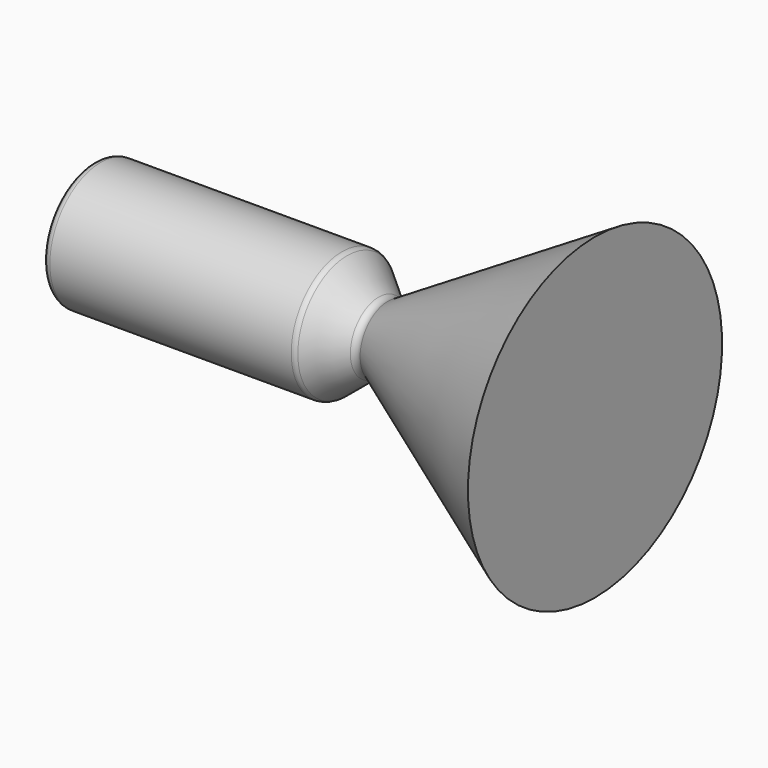
from build123d import *


with BuildPart() as f1:
    # F0 (on Front) → F1 (revolve)
    with BuildSketch(Plane.XZ):
        with BuildLine():
            Line((0, 44.45), (0, 0))
            Line((0, 0), (401.558606, 0))
            Line((401.558606, 0), (401.558606, 127))
            Line((401.558606, 127), (235.924389, 27.720657))
            ThreePointArc((235.924389, 27.720657), (232.164967, 26.836513), (228.588575, 28.294041))
            Line((228.588575, 28.294041), (203.41712, 49.323164))
            ThreePointArc((203.41712, 49.323164), (201.511307, 50.419384), (199.345907, 50.8))
            Line((199.345907, 50.8), (6.35, 50.8))
            ThreePointArc((6.35, 50.8), (1.859872, 48.940128), (0, 44.45))
        make_face()
    revolve(axis=Axis((200.779303, 0, 0), (-1, 0, 0)))


solid = f1.part
